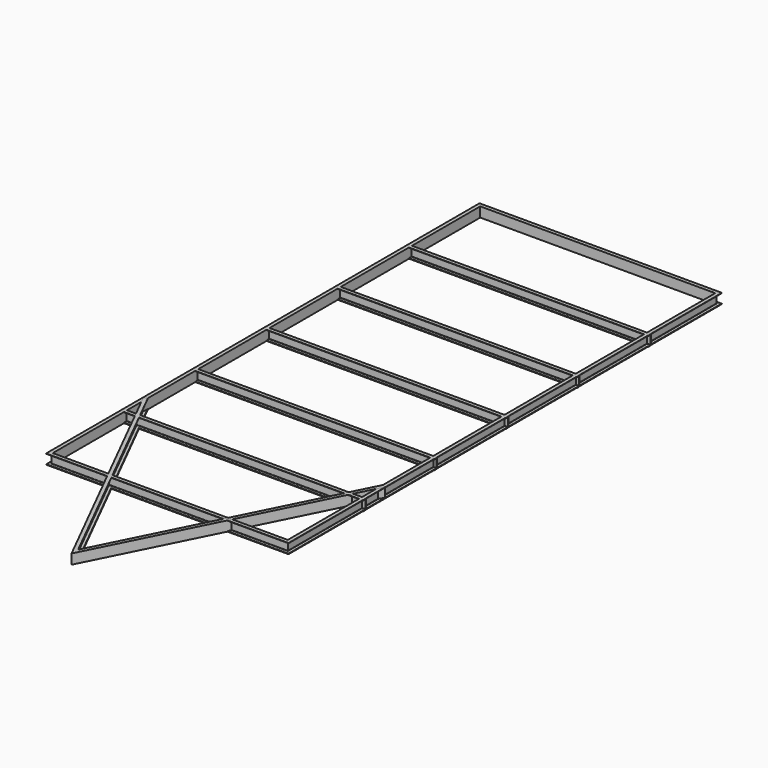
from build123d import *


with BuildPart() as f2:
    # F2: sweep along a path in F0
    with BuildLine(Plane.XY) as f2_path:
        Line((-1206.5, 0), (1206.5, 0))
        Line((1206.5, 0), (1206.5, 5486.4))
        Line((1206.5, 5486.4), (-1206.5, 5486.4))
        Line((-1206.5, 5486.4), (-1206.5, 0))
    # F1 (on Right) → F2 (sweep)
    with BuildSketch(Plane.YZ):
        with BuildLine():
            Line((-38.1, 0), (0, 0))
            Line((0, 0), (0, 101.6))
            Line((0, 101.6), (-38.1, 101.6))
            Line((-38.1, 101.6), (-38.1, 100.4019994295))
            ThreePointArc((-38.1, 100.4019994295), (-37.1458368878, 98.0001845864), (-34.8035916909, 96.9079258151))
            Line((-34.8035916909, 96.9079258151), (-9.6464083091, 95.4420741849))
            ThreePointArc((-9.6464083091, 95.4420741849), (-7.3041631122, 94.3498154136), (-6.35, 91.9480005705))
            Line((-6.35, 91.9480005705), (-6.35, 9.6519994295))
            ThreePointArc((-6.35, 9.6519994295), (-7.3041631122, 7.2501845864), (-9.6464083091, 6.1579258151))
            Line((-9.6464083091, 6.1579258151), (-34.8035916909, 4.6920741849))
            ThreePointArc((-34.8035916909, 4.6920741849), (-37.1458368878, 3.5998154136), (-38.1, 1.1980005705))
            Line((-38.1, 1.1980005705), (-38.1, 0))
        make_face()
    sweep(path=f2_path.line, transition=Transition.RIGHT)

    # F6: sweep along a path in F3
    with BuildLine(Plane.XY) as f6_path:
        Line((-1206.6625356674, 1222.825884819), (0, -1181.1))
        Line((0, -1181.1), (1206.6625356674, 1222.825884819))
    # F5 (on mid) → F6 (sweep)
    with BuildSketch(Plane(origin=(129.7861191891, 258.5612813745, 0), x_dir=(0.8937272163, -0.4486108144, 0), z_dir=(-0.4486108144, -0.8937272163, 0))):
        with BuildLine():
            Line((530.4787807352, 0.000643694), (568.5787807352, 0.000643694))
            Line((568.5787807352, 0.000643694), (568.5787807352, 101.600643694))
            Line((568.5787807352, 101.600643694), (530.4787807352, 101.600643694))
            Line((530.4787807352, 101.600643694), (530.4787807352, 100.4026431235))
            ThreePointArc((530.4787807352, 100.4026431235), (531.4329339351, 98.000838787), (533.7751602041, 96.9085711895))
            Line((533.7751602041, 96.9085711895), (558.9323435878, 95.4427195593))
            ThreePointArc((558.9323435878, 95.4427195593), (561.2746077115, 94.3504696137), (562.2287807355, 91.9486442644))
            Line((562.2287807355, 91.9486442644), (562.2287807352, 9.6526431235))
            ThreePointArc((562.2287807352, 9.6526431235), (561.2746216047, 7.2508325008), (558.9323840111, 6.158570184))
            Line((558.9323840111, 6.158570184), (533.7752006274, 4.6927185538))
            ThreePointArc((533.7752006274, 4.6927185538), (531.4329478286, 3.6004633274), (530.4787807352, 1.1986442644))
            Line((530.4787807352, 1.1986442644), (530.4787807352, 0.000643694))
        make_face()
    sweep(path=f6_path.line, transition=Transition.RIGHT)

    # F9: sweep along a path in F7
    with BuildLine(Plane.XY) as f9_path:
        Line((-1244.829416275, 952.5), (1247.5138902664, 952.5))
    # F8 (on Right) → F9 (sweep)
    with BuildSketch(Plane.YZ):
        with BuildLine():
            Line((914.4361019135, 0), (952.5361019135, 0))
            Line((952.5361019135, 0), (952.5361019135, 101.6))
            Line((952.5361019135, 101.6), (914.4361019135, 101.6))
            Line((914.4361019135, 101.6), (914.4361019135, 100.4019994295))
            ThreePointArc((914.4361019135, 100.4019994295), (915.3902650257, 98.0001845864), (917.7325102225, 96.9079258151))
            Line((917.7325102225, 96.9079258151), (942.8896936044, 95.4420741849))
            ThreePointArc((942.8896936044, 95.4420741849), (945.2319388012, 94.3498154136), (946.1861019135, 91.9480005705))
            Line((946.1861019135, 91.9480005705), (946.1861019135, 9.6519994295))
            ThreePointArc((946.1861019135, 9.6519994295), (945.2319388012, 7.2501845864), (942.8896936044, 6.1579258151))
            Line((942.8896936044, 6.1579258151), (917.7325102225, 4.6920741849))
            ThreePointArc((917.7325102225, 4.6920741849), (915.3902650257, 3.5998154136), (914.4361019135, 1.1980005705))
            Line((914.4361019135, 1.1980005705), (914.4361019135, 0))
        make_face()
        with BuildLine():
            Line((1828.8361019135, 0), (1866.9361019135, 0))
            Line((1866.9361019135, 0), (1866.9361019135, 101.6))
            Line((1866.9361019135, 101.6), (1828.8361019135, 101.6))
            Line((1828.8361019135, 101.6), (1828.8361019135, 100.4019994295))
            ThreePointArc((1828.8361019135, 100.4019994295), (1829.7902650257, 98.0001845864), (1832.1325102225, 96.9079258151))
            Line((1832.1325102225, 96.9079258151), (1857.2896936044, 95.4420741849))
            ThreePointArc((1857.2896936044, 95.4420741849), (1859.6319388012, 94.3498154136), (1860.5861019135, 91.9480005705))
            Line((1860.5861019135, 91.9480005705), (1860.5861019135, 9.6519994295))
            ThreePointArc((1860.5861019135, 9.6519994295), (1859.6319388012, 7.2501845864), (1857.2896936044, 6.1579258151))
            Line((1857.2896936044, 6.1579258151), (1832.1325102225, 4.6920741849))
            ThreePointArc((1832.1325102225, 4.6920741849), (1829.7902650257, 3.5998154136), (1828.8361019135, 1.1980005705))
            Line((1828.8361019135, 1.1980005705), (1828.8361019135, 0))
        make_face()
        with BuildLine():
            Line((2743.2361019135, 0), (2781.3361019135, 0))
            Line((2781.3361019135, 0), (2781.3361019135, 101.6))
            Line((2781.3361019135, 101.6), (2743.2361019135, 101.6))
            Line((2743.2361019135, 101.6), (2743.2361019135, 100.4019994295))
            ThreePointArc((2743.2361019135, 100.4019994295), (2744.1902650257, 98.0001845864), (2746.5325102225, 96.9079258151))
            Line((2746.5325102225, 96.9079258151), (2771.6896936044, 95.4420741849))
            ThreePointArc((2771.6896936044, 95.4420741849), (2774.0319388012, 94.3498154136), (2774.9861019135, 91.9480005705))
            Line((2774.9861019135, 91.9480005705), (2774.9861019135, 9.6519994295))
            ThreePointArc((2774.9861019135, 9.6519994295), (2774.0319388012, 7.2501845864), (2771.6896936044, 6.1579258151))
            Line((2771.6896936044, 6.1579258151), (2746.5325102225, 4.6920741849))
            ThreePointArc((2746.5325102225, 4.6920741849), (2744.1902650257, 3.5998154136), (2743.2361019135, 1.1980005705))
            Line((2743.2361019135, 1.1980005705), (2743.2361019135, 0))
        make_face()
        with BuildLine():
            Line((3657.6361019135, 0), (3695.7361019135, 0))
            Line((3695.7361019135, 0), (3695.7361019135, 101.6))
            Line((3695.7361019135, 101.6), (3657.6361019135, 101.6))
            Line((3657.6361019135, 101.6), (3657.6361019135, 100.4019994295))
            ThreePointArc((3657.6361019135, 100.4019994295), (3658.5902650257, 98.0001845864), (3660.9325102225, 96.9079258151))
            Line((3660.9325102225, 96.9079258151), (3686.0896936044, 95.4420741849))
            ThreePointArc((3686.0896936044, 95.4420741849), (3688.4319388012, 94.3498154136), (3689.3861019135, 91.9480005705))
            Line((3689.3861019135, 91.9480005705), (3689.3861019135, 9.6519994295))
            ThreePointArc((3689.3861019135, 9.6519994295), (3688.4319388012, 7.2501845864), (3686.0896936044, 6.1579258151))
            Line((3686.0896936044, 6.1579258151), (3660.9325102225, 4.6920741849))
            ThreePointArc((3660.9325102225, 4.6920741849), (3658.5902650257, 3.5998154136), (3657.6361019135, 1.1980005705))
            Line((3657.6361019135, 1.1980005705), (3657.6361019135, 0))
        make_face()
        with BuildLine():
            Line((4572.0361019135, 0), (4610.1361019135, 0))
            Line((4610.1361019135, 0), (4610.1361019135, 101.6))
            Line((4610.1361019135, 101.6), (4572.0361019135, 101.6))
            Line((4572.0361019135, 101.6), (4572.0361019135, 100.4019994295))
            ThreePointArc((4572.0361019135, 100.4019994295), (4572.9902650257, 98.0001845864), (4575.3325102225, 96.9079258151))
            Line((4575.3325102225, 96.9079258151), (4600.4896936044, 95.4420741849))
            ThreePointArc((4600.4896936044, 95.4420741849), (4602.8319388012, 94.3498154136), (4603.7861019135, 91.9480005705))
            Line((4603.7861019135, 91.9480005705), (4603.7861019135, 9.6519994295))
            ThreePointArc((4603.7861019135, 9.6519994295), (4602.8319388012, 7.2501845864), (4600.4896936044, 6.1579258151))
            Line((4600.4896936044, 6.1579258151), (4575.3325102225, 4.6920741849))
            ThreePointArc((4575.3325102225, 4.6920741849), (4572.9902650257, 3.5998154136), (4572.0361019135, 1.1980005705))
            Line((4572.0361019135, 1.1980005705), (4572.0361019135, 0))
        make_face()
    sweep(path=f9_path.line)


solid = f2.part
